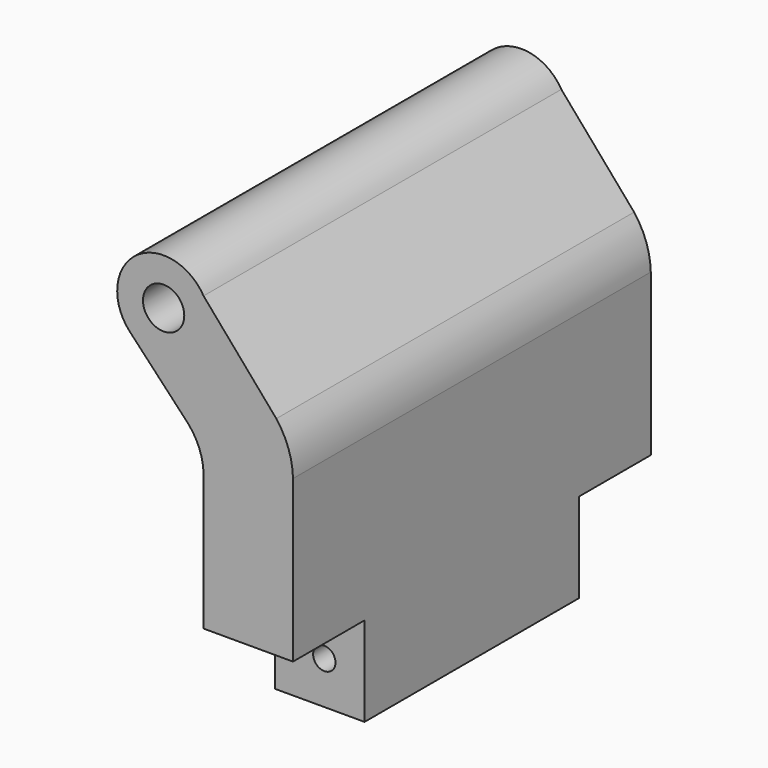
from build123d import *

# Parameters (mm, degrees)
F0_R     = 5.861767
F1_DEPTH = 127
F2_W     = 25.4
F2_H     = 25.4
F3_DEPTH = 25.4
F4_W     = 25.4
F4_H     = 25.4
F5_DEPTH = 25.4
F7_D     = 6.35


with BuildPart() as f1:
    # F0 (on Front) → F1 (new body)
    with BuildSketch(Plane.XZ):
        with BuildLine():
            Line((-13.975801, 23.479906), (-13.975801, -40.838215))
            Line((-13.975801, -40.838215), (11.424199, -40.838215))
            Line((11.424199, -40.838215), (11.424199, 29.419485))
            Line((11.424199, 29.419485), (11.424199, 30.323507))
            ThreePointArc((11.424199, 30.323507), (10.135022, 37.425094), (6.681635, 43.762966))
            Line((6.681635, 43.762966), (-13.975801, 67.725592))
            ThreePointArc((-13.975801, 67.725592), (-33.241845, 71.538413), (-34.911566, 51.969814))
            Line((-34.911566, 51.969814), (-19.002141, 35.0763))
            ThreePointArc((-19.002141, 35.0763), (-18.691723, 34.755054), (-18.389663, 34.425937))
            ThreePointArc((-18.389663, 34.425937), (-15.225185, 29.339041), (-13.975801, 23.479906))
        make_face()
        with Locations((-25.315826, 61.006578)):
            Circle(F0_R, mode=Mode.SUBTRACT)
    extrude(amount=F1_DEPTH)

    # F2 (on face) → F3 (cut)
    with BuildSketch(Plane.XZ.offset(127)):
        with Locations((-1.275801, -28.138215)):
            Rectangle(F2_W, F2_H)
    extrude(amount=-F3_DEPTH, mode=Mode.SUBTRACT)

    # F4 (on face) → F5 (cut)
    with BuildSketch(Plane(origin=(0, 0, 0), x_dir=(-1, 0, 0), z_dir=(0, 1, 0))):
        with Locations((1.275801, -28.138215)):
            Rectangle(F4_W, F4_H)
    extrude(amount=-F5_DEPTH, mode=Mode.SUBTRACT)

    # F7 (through all)
    with Locations(Plane.XZ.offset(101.6)):
        with Locations((0, -28.686289)):
            Hole(F7_D / 2)


solid = f1.part
